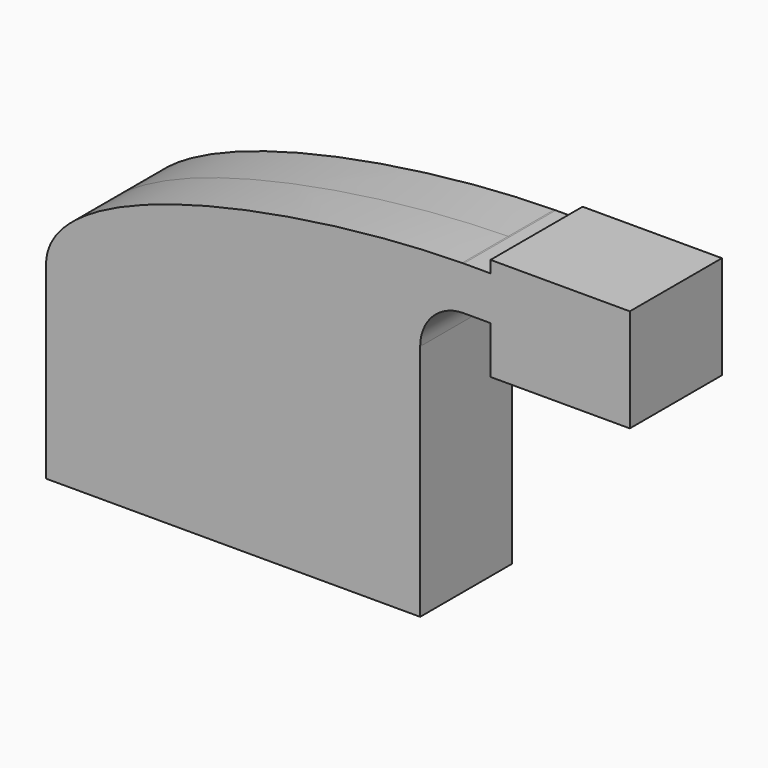
from build123d import *

# Parameters (mm, degrees)
F1_DEPTH = 12.7


with BuildPart() as f1:
    # F0 (on Front) → F1 (new body, symmetric)
    with BuildSketch(Plane.XZ):
        Polygon((31.622999, 20.98338), (-41.275, 20.98338), (-41.275, -20.98338), (41.275, -20.98338), (41.275, 20.98338), align=None)
        with BuildLine():
            add(Edge.make_bspline(
                [(-41.275, 20.98338), (-40.461943, 40.135061), (15.990857, 50.458018), (50.534821, 50.782614)],
                knots=[0, 0, 0, 0, 96.531528, 96.531528, 96.531528, 96.531528], degree=3))
            Line((-41.275, 20.98338), (31.622999, 20.98338))
            Line((31.622999, 20.98338), (31.622999, 31.546591))
            ThreePointArc((31.622999, 31.546591), (37.142796, 45.034378), (50.534821, 50.782614))
        make_face()
        with BuildLine():
            Line((31.622999, 31.546591), (31.622999, 20.98338))
            Line((31.622999, 20.98338), (41.275, 20.98338))
            Line((41.275, 20.98338), (41.275, 31.546591))
            ThreePointArc((41.275, 31.546591), (44.082909, 38.325482), (50.8618, 41.133391))
            Line((50.8618, 41.133391), (56.801163, 41.133391))
            Line((56.801163, 41.133391), (56.801163, 50.785393))
            Line((56.801163, 50.785393), (50.8618, 50.785393))
            add(Edge.make_bspline(
                [(50.534821, 50.782614), (50.644034, 50.78364), (50.753028, 50.784566), (50.8618, 50.785393)],
                knots=[96.531528, 96.531528, 96.531528, 96.531528, 96.836718, 96.836718, 96.836718, 96.836718], degree=3))
            ThreePointArc((50.534821, 50.782614), (37.142796, 45.034378), (31.622999, 31.546591))
        make_face()
        Polygon((56.801163, 53.419228), (56.801163, 50.785393), (56.801163, 41.133391), (56.801163, 30.668017), (87.546031, 30.668017), (87.546031, 53.419228), align=None)
    extrude(amount=F1_DEPTH, both=True)


solid = f1.part
